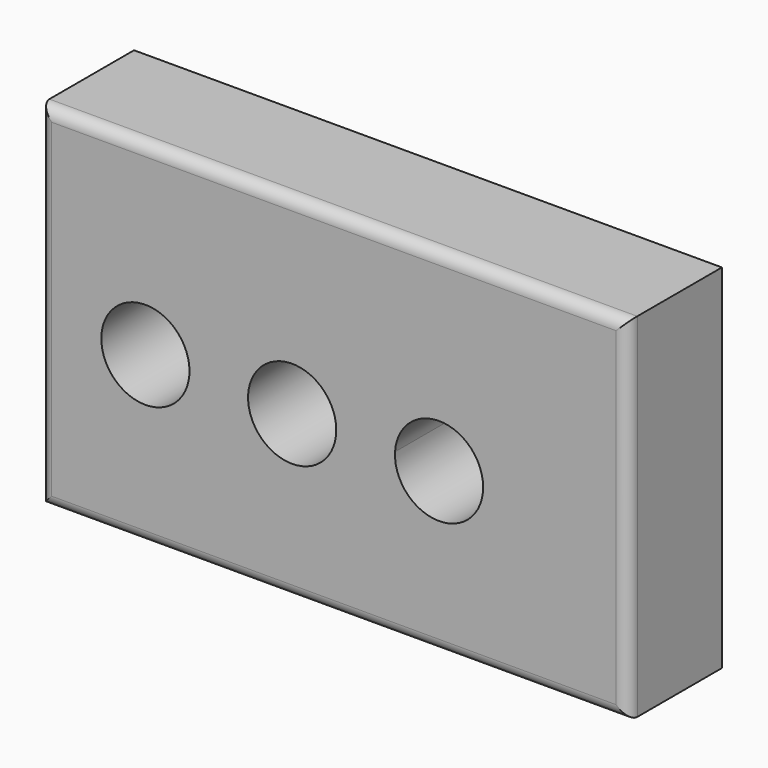
from build123d import *

# Parameters (mm, degrees)
F0_W     = 254
F0_H     = 152.4
F1_DEPTH = 50.8
F3_DEPTH = 123.19
F4_R     = 5.08


with BuildPart() as f1:
    # F0 (on Front) → F1 (new body)
    with BuildSketch(Plane.XZ):
        with Locations((30.619834, 5.991532)):
            Rectangle(F0_W, F0_H)
    extrude(amount=F1_DEPTH)

    # F2 (on face) → F3 (cut)
    with BuildSketch(Plane.XZ.offset(50.8)):
        with BuildLine():
            ThreePointArc((-6.468596, 0), (12.581404, -19.05), (31.631404, 0))
            ThreePointArc((31.631404, 0), (12.581404, 19.05), (-6.468596, 0))
        make_face()
        with BuildLine():
            ThreePointArc((-31.782277, 1.811433), (-69.860685, 2.718177), (-31.868596, 0))
            ThreePointArc((-31.868596, 0), (-31.803869, 0.904689), (-31.782277, 1.811433))
        make_face()
        with BuildLine():
            ThreePointArc((95.098651, -1.116608), (76.607195, 17.925202), (57.031404, 0))
            ThreePointArc((57.031404, 0), (75.490107, -20.158418), (95.098651, -1.116608))
        make_face()
    extrude(amount=-F3_DEPTH, mode=Mode.SUBTRACT)

    # F4
    f4_edges = [f1.edges().sort_by_distance(p)[0] for p in [
        (30.619834, -50.8, -70.208468),
        (157.619834, -50.8, 5.991532),
        (30.619834, -50.8, 82.191532),
        (-96.380166, -50.8, 5.991532),
    ]]
    fillet(f4_edges, radius=F4_R)


solid = f1.part
